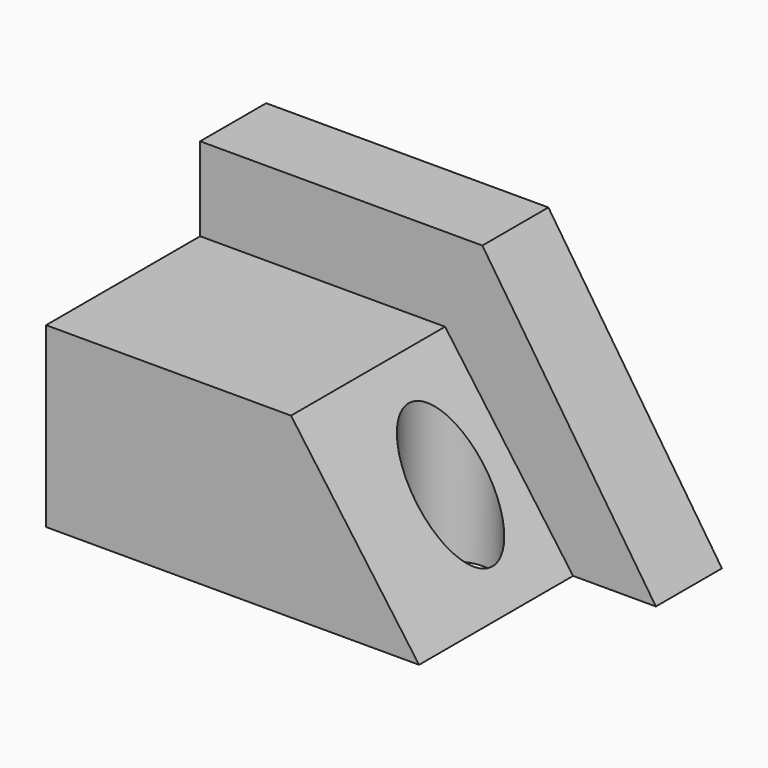
from build123d import *

# Parameters (mm, degrees)
F1_DEPTH = 50
F3_DEPTH = 15
F4_R     = 7.6198541316
F5_DEPTH = 295


with BuildPart() as f1:
    # F0 (on Front) → F1 (new body)
    with BuildSketch(Plane.XZ):
        Polygon((0, 32.3076955974), (0, 0), (67.7884593606, 0), (44.5192344487, 32.3076955974), align=None)
    extrude(amount=F1_DEPTH)

    # F2 (on Front) → F3 (join)
    with BuildSketch(Plane.XZ):
        Polygon((0, 47.5000031292), (0, 0), (82.8365385532, 0), (51.2980781496, 47.5000031292), align=None)
    extrude(amount=F3_DEPTH)

    # F4 (on Top) → F5 (cut, symmetric)
    with BuildSketch(Plane.XY):
        with Locations((56.1298057437, -28.2692331821)):
            Circle(F4_R)
    extrude(amount=F5_DEPTH, both=True, mode=Mode.SUBTRACT)


solid = f1.part
